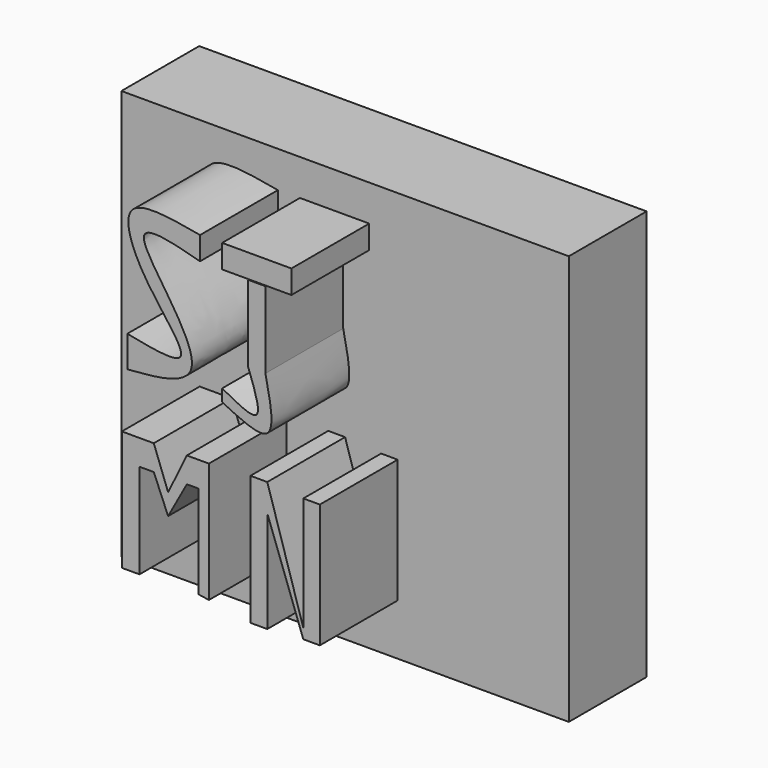
from build123d import *

# Parameters (mm, degrees)
F0_W     = 116.8491393328
F0_H     = 107.0637479424
F1_DEPTH = 25.4
F3_DEPTH = 25.4
F4_W     = 27.6406439953
F4_H     = 4.6218410134
F4_W_2   = 4.8651071265
F4_H_2   = 17.4579061568
F5_DEPTH = 25.4
F6_W     = 18.0926499888
F6_H     = 6.1099603772
F6_W_2   = 4.5143677853
F6_H_2   = 20.0416818261
F7_DEPTH = 25.4
F9_DEPTH = 25.4


with BuildPart() as f1:
    # F0 (on Front) → F1 (new body)
    with BuildSketch(Plane.XZ):
        Rectangle(F0_W, F0_H)
    extrude(amount=F1_DEPTH)

    # F2 (on face) → F3 (join)
    with BuildSketch(Plane.XZ.offset(25.4)):
        with BuildLine():
            add(Edge.make_bspline(
                [(-17.5561513752, 37.9903614521), (-24.953283017, 39.9782557098), (-42.8097815631, 44.7769848175), (-5.2901499603, 6.2827135922), (-35.8809845375, 7.4254009752), (-36.5513302386, 6.9073382765)],
                knots=[0, 0, 0, 0, 0.2732261888, 0.6595614733, 0.9545192624, 0.9545192624, 0.9545192624, 0.9545192624], degree=3))
            Line((-17.5561513752, 37.9903614521), (-17.5561513752, 44.0342836082))
            add(Edge.make_bspline(
                [(-17.5561513752, 44.0342836082), (-25.1543140232, 45.4079732221), (-39.6679355854, 48.0319248434), (-33.5640639258, 29.0982633355), (-16.0725558292, 11.0812579949), (-30.0093521692, 13.8591155064), (-36.5513302386, 15.1630509645)],
                knots=[0, 0, 0, 0, 0.2630540698, 0.502472426, 0.7664589194, 1, 1, 1, 1], degree=3))
            Line((-36.5513302386, 15.1630509645), (-36.5513302386, 6.9073382765))
        make_face()
    extrude(amount=F3_DEPTH)

    # F4 (on Front) → F5 (join)
    with BuildSketch(Plane.XZ):
        with Locations((2.0862433594, 40.473267436)):
            Rectangle(F4_W, F4_H)
        with BuildLine():
            add(Edge.make_bspline(
                [(2.4325535633, 20.6712316722), (3.4411130615, 16.0815352254), (5.5878055269, 6.3124865987), (-5.9730380011, 6.1934700271), (-12.1023636311, 6.1303698458)],
                knots=[0, 0, 0, 0, 0.4698202069, 1, 1, 1, 1], degree=3))
            Line((2.4325535633, 20.6712316722), (-2.4325535633, 20.6712316722))
            add(Edge.make_bspline(
                [(-12.1023636311, 12.2731719166), (-8.5431457012, 11.5565891098), (-1.4804466234, 10.1346450682), (-2.1168587101, 17.1775630293), (-2.4325535633, 20.6712316722)],
                knots=[0, 0, 0, 0, 0.5039458557, 1, 1, 1, 1], degree=3))
            Line((-12.1023636311, 12.2731719166), (-12.1023636311, 6.1303698458))
        make_face()
        with Locations((0, 29.4001847506)):
            Rectangle(F4_W_2, F4_H_2)
    extrude(amount=F5_DEPTH)

    # F6 (on face) → F7 (join)
    with BuildSketch(Plane.XZ.offset(25.4)):
        with Locations((-2.7509038337, 41.0453416407)):
            Rectangle(F6_W, F6_H)
        with Locations((-2.7444071602, 27.790505439)):
            Rectangle(F6_W_2, F6_H_2)
        with BuildLine():
            Line((-0.4872232676, 17.769664526), (-5.0015910529, 17.769664526))
            add(Edge.make_bspline(
                [(-11.7972288281, 10.6488130987), (-7.936658053, 8.5440484941), (-0.0090792572, 4.2219706922), (-3.3087786344, 13.1760440597), (-5.0015910529, 17.769664526)],
                knots=[0, 0, 0, 0, 0.4869798049, 1, 1, 1, 1], degree=3))
            Line((-11.7972288281, 10.6488130987), (-11.7972288281, 7.4829496443))
            add(Edge.make_bspline(
                [(-0.4872232676, 17.769664526), (0.7792555131, 11.7849451432), (3.2481003716, 0.1184696339), (-6.8697011613, 5.0709931812), (-11.7972288281, 7.4829496443)],
                knots=[0, 0, 0, 0, 0.5129843523, 1, 1, 1, 1], degree=3))
        make_face()
    extrude(amount=F7_DEPTH)

    # F8 (on face) → F9 (join)
    with BuildSketch(Plane.XZ.offset(25.4)):
        Polygon((-29.6439938247, -7.7707557939), (-37.9903614521, -7.7707557939), (-37.9903614521, -39.1415841877), (-33.3854667842, -39.1415841877), (-33.3854667842, -14.3902888522), (-29.6439938247, -14.3902888522), (-25.9025190026, -23.312266916), (-21.0098195821, -14.3902888522), (-17.9941952229, -14.3902888522), (-17.9941952229, -38.7041904032), (-15.2537059039, -39.1415841877), (-15.2537059039, -7.7707557939), (-21.0098195821, -7.7707557939), (-25.9025190026, -17.8439561278), align=None)
        Polygon((0, -14.2407007515), (0, -7.0455572568), (-4.40659374, -7.0455572568), (-4.40659374, -40.8627316356), (0, -40.8627316356), align=None)
        Polygon((9.408085607, -37.5529676676), (0, -7.0455572568), (0, -14.2407007515), (9.408085607, -40.1432216167), align=None)
        Polygon((9.408085607, -7.7650714666), (9.408085607, -37.5529676676), (9.408085607, -40.1432216167), (13.7251708657, -40.1432216167), (13.7251708657, -7.7650714666), align=None)
    extrude(amount=F9_DEPTH)


solid = f1.part
